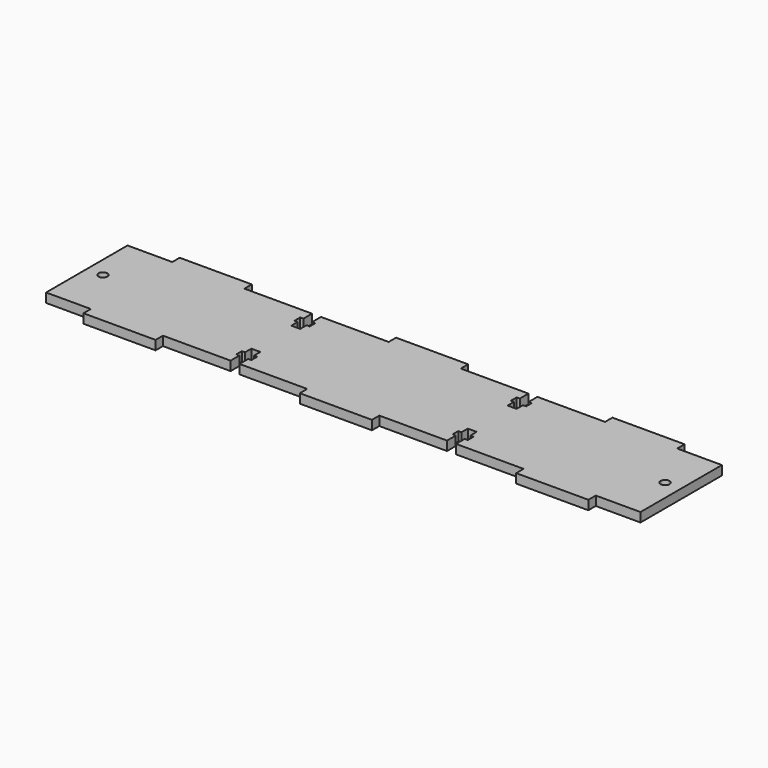
from build123d import *

# Parameters (mm, degrees)
F1_W     = 206
F1_H     = 35.28
F2_DEPTH = 3.2
F3_W     = 25
F3_H     = 3.2
F4_DEPTH = 3.2
F5_R     = 1.55
F5_W     = 3.1
F5_H     = 3.75
F5_H_2   = 2.5
F5_W_2   = 1.1
F5_H_3   = 2.75
F6_DEPTH = 3.201


with BuildPart() as f2:
    # F1 (on Top) → F2 (new body)
    with BuildSketch(Plane.XY):
        Rectangle(F1_W, F1_H)
    extrude(amount=F2_DEPTH)

    # F3 (on face) → F4 (join, through all)
    with BuildSketch(Plane.XY.offset(3.2)):
        with Locations((-75, -19.24)):
            Rectangle(F3_W, F3_H)
        with Locations((0, -19.24)):
            Rectangle(F3_W, F3_H)
        with Locations((75, -19.24)):
            Rectangle(F3_W, F3_H)
        with Locations((75, 19.24)):
            Rectangle(F3_W, F3_H)
        with Locations((-75, 19.24)):
            Rectangle(F3_W, F3_H)
        with Locations((0, 19.24)):
            Rectangle(F3_W, F3_H)
    extrude(amount=-F4_DEPTH)

    # F5 (on face) → F6 (cut, through all)
    with BuildSketch(Plane.XY.offset(3.2)):
        with Locations((-97.4, 0)):
            Circle(F5_R)
        with Locations((97.4, 0)):
            Circle(F5_R)
        with Locations((-37.5, -15.765)):
            Rectangle(F5_W, F5_H)
        with Locations((-37.5, -12.64)):
            Rectangle(F5_W, F5_H_2)
        with Locations((-35.4, -12.64)):
            Rectangle(F5_W_2, F5_H_2)
        with Locations((-37.5, -10.015)):
            Rectangle(F5_W, F5_H_3)
        with Locations((-39.6, -12.64)):
            Rectangle(F5_W_2, F5_H_2)
        with Locations((37.5, -15.765)):
            Rectangle(F5_W, F5_H)
        with Locations((37.5, -12.64)):
            Rectangle(F5_W, F5_H_2)
        with Locations((35.4, -12.64)):
            Rectangle(F5_W_2, F5_H_2)
        with Locations((39.6, -12.64)):
            Rectangle(F5_W_2, F5_H_2)
        with Locations((37.5, -10.015)):
            Rectangle(F5_W, F5_H_3)
        with Locations((-37.5, 10.015)):
            Rectangle(F5_W, F5_H_3)
        with Locations((-35.4, 12.64)):
            Rectangle(F5_W_2, F5_H_2)
        with Locations((-37.5, 12.64)):
            Rectangle(F5_W, F5_H_2)
        with Locations((-39.6, 12.64)):
            Rectangle(F5_W_2, F5_H_2)
        with Locations((-37.5, 15.765)):
            Rectangle(F5_W, F5_H)
        with Locations((39.6, 12.64)):
            Rectangle(F5_W_2, F5_H_2)
        with Locations((37.5, 10.015)):
            Rectangle(F5_W, F5_H_3)
        with Locations((37.5, 12.64)):
            Rectangle(F5_W, F5_H_2)
        with Locations((37.5, 15.765)):
            Rectangle(F5_W, F5_H)
        with Locations((35.4, 12.64)):
            Rectangle(F5_W_2, F5_H_2)
    extrude(amount=-F6_DEPTH, mode=Mode.SUBTRACT)


solid = f2.part
